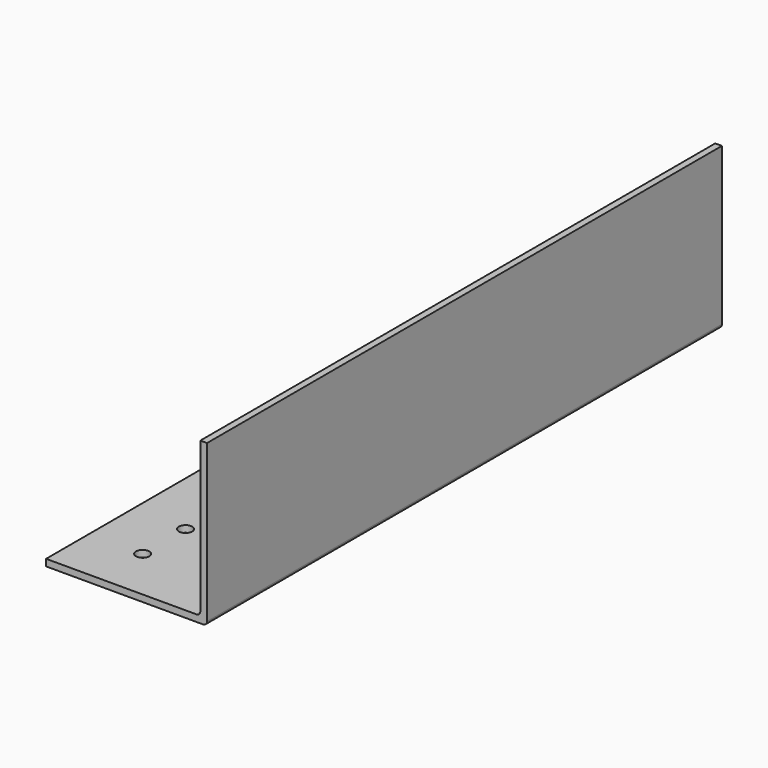
from build123d import *

# Parameters (mm, degrees)
F1_DEPTH = 304.8
F3_R     = 3.175
F4_DEPTH = 76.201


with BuildPart() as f1:
    # F0 (on Front) → F1 (new body)
    with BuildSketch(Plane.XZ):
        with BuildLine():
            Line((-76.2, 0), (-1.8598719395, 0))
            ThreePointArc((-1.8598719395, 0), (-3.5781695574, 1.1481297619), (-3.175, 3.175))
            Line((-3.175, 3.175), (-5.0348719936, 3.175))
            Line((-5.0348719936, 3.175), (-76.2, 3.175))
            Line((-76.2, 3.175), (-76.2, 0))
        make_face()
        with BuildLine():
            ThreePointArc((-3.175, 3.175), (-1.1481297619, 3.5781695574), (0, 1.8598719395))
            Line((0, 1.8598719395), (0, 76.2))
            Line((0, 76.2), (-3.175, 76.2))
            Line((-3.175, 76.2), (-3.175, 5.0348719395))
            Line((-3.175, 5.0348719395), (-3.175, 3.175))
        make_face()
        with BuildLine():
            Line((-5.0348719936, 3.175), (-3.175, 3.175))
            Line((-3.175, 3.175), (-3.175, 5.0348719395))
            ThreePointArc((-3.175, 5.0348719395), (-3.7197438981, 3.7197438598), (-5.0348719936, 3.175))
        make_face()
        with BuildLine():
            ThreePointArc((-3.175, 3.175), (-3.5781695574, 1.1481297619), (-1.8598719395, 0))
            ThreePointArc((-1.8598719395, 0), (-0.5447438789, 0.5447438789), (0, 1.8598719395))
            ThreePointArc((0, 1.8598719395), (-1.1481297619, 3.5781695574), (-3.175, 3.175))
        make_face()
    extrude(amount=F1_DEPTH)

    # F3 (on face) → F4 (cut, through all)
    with BuildSketch(Plane(origin=(0, 0, 0), x_dir=(1, 0, 0), z_dir=(0, 0, -1))):
        with Locations((-50.8, 279.4)):
            Circle(F3_R)
        with Locations((-50.8, 254)):
            Circle(F3_R)
        with Locations((-50.8, 228.6)):
            Circle(F3_R)
        with Locations((-50.8, 203.2)):
            Circle(F3_R)
        with Locations((-50.8, 177.8)):
            Circle(F3_R)
        with Locations((-50.8, 152.4)):
            Circle(F3_R)
        with Locations((-50.8, 127)):
            Circle(F3_R)
        with Locations((-50.8, 101.6)):
            Circle(F3_R)
        with Locations((-50.8, 76.2)):
            Circle(F3_R)
        with Locations((-50.8, 50.8)):
            Circle(F3_R)
        with Locations((-50.8, 25.4)):
            Circle(F3_R)
    extrude(amount=-F4_DEPTH, mode=Mode.SUBTRACT)


solid = f1.part
